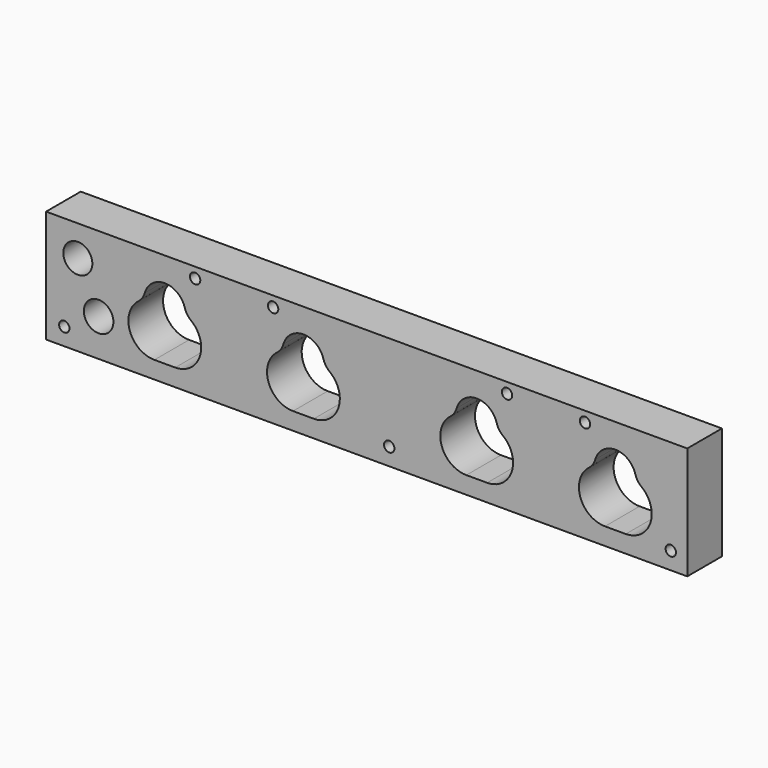
from build123d import *

# Parameters (mm, degrees)
F0_W     = 370
F0_H     = 65
F0_R     = 3
F1_DEPTH = 25
F3_DEPTH = 25
F4_R     = 8.382557
F4_R_2   = 8.524465
F5_DEPTH = 25


with BuildPart() as f1:
    # F0 (on Front) → F1 (new body)
    with BuildSketch(Plane.XZ):
        Rectangle(F0_W, F0_H)
        with Locations((-174.5, -22.5)):
            Circle(F0_R, mode=Mode.SUBTRACT)
        with BuildLine():
            ThreePointArc((-128.054669, 9.662031), (-116.5, 18.423264), (-104.945331, 9.662031))
            ThreePointArc((-104.945331, 9.662031), (-103.594078, 6.750238), (-101.389864, 4.416603))
            ThreePointArc((-101.389864, 4.416603), (-96.291745, -12.308896), (-110.5, -22.5))
            Line((-110.5, -22.5), (-122.5, -22.5))
            ThreePointArc((-122.5, -22.5), (-136.708255, -12.308896), (-131.610136, 4.416603))
            ThreePointArc((-131.610136, 4.416603), (-129.405922, 6.750238), (-128.054669, 9.662031))
        make_face(mode=Mode.SUBTRACT)
        with BuildLine():
            ThreePointArc((-48.054669, 9.662031), (-36.5, 18.423264), (-24.945331, 9.662031))
            ThreePointArc((-24.945331, 9.662031), (-23.594078, 6.750238), (-21.389864, 4.416603))
            ThreePointArc((-21.389864, 4.416603), (-16.291745, -12.308896), (-30.5, -22.5))
            Line((-30.5, -22.5), (-42.5, -22.5))
            ThreePointArc((-42.5, -22.5), (-56.708255, -12.308896), (-51.610136, 4.416603))
            ThreePointArc((-51.610136, 4.416603), (-49.405922, 6.750238), (-48.054669, 9.662031))
        make_face(mode=Mode.SUBTRACT)
        with Locations((13, -22.5)):
            Circle(F0_R, mode=Mode.SUBTRACT)
        with Locations((175.5, -22.5)):
            Circle(F0_R, mode=Mode.SUBTRACT)
        with Locations((-99, 26.5)):
            Circle(F0_R, mode=Mode.SUBTRACT)
        with Locations((-54, 26.5)):
            Circle(F0_R, mode=Mode.SUBTRACT)
        with Locations((81, 26.5)):
            Circle(F0_R, mode=Mode.SUBTRACT)
        with Locations((126, 26.5)):
            Circle(F0_R, mode=Mode.SUBTRACT)
    extrude(amount=F1_DEPTH)

    # F2 (on face) → F3 (cut)
    with BuildSketch(Plane.XZ.offset(25)):
        with BuildLine():
            ThreePointArc((128.389864, 4.416603), (123.291745, -12.308896), (137.5, -22.5))
            Line((137.5, -22.5), (149.5, -22.5))
            ThreePointArc((149.5, -22.5), (163.708255, -12.308896), (158.610136, 4.416603))
            ThreePointArc((158.610136, 4.416603), (156.405922, 6.750238), (155.054669, 9.662031))
            ThreePointArc((155.054669, 9.662031), (143.5, 18.423264), (131.945331, 9.662031))
            ThreePointArc((131.945331, 9.662031), (130.594078, 6.750238), (128.389864, 4.416603))
        make_face()
        with BuildLine():
            Line((57.5, -22.5), (69.5, -22.5))
            ThreePointArc((69.5, -22.5), (83.708255, -12.308896), (78.610136, 4.416603))
            ThreePointArc((78.610136, 4.416603), (76.405922, 6.750238), (75.054669, 9.662031))
            ThreePointArc((75.054669, 9.662031), (63.5, 18.423264), (51.945331, 9.662031))
            ThreePointArc((51.945331, 9.662031), (50.594078, 6.750238), (48.389864, 4.416603))
            ThreePointArc((48.389864, 4.416603), (43.291745, -12.308896), (57.5, -22.5))
        make_face()
    extrude(amount=-F3_DEPTH, mode=Mode.SUBTRACT)

    # F4 (on face) → F5 (cut)
    with BuildSketch(Plane.XZ.offset(25)):
        with Locations((-166.68272, 14.735676)):
            Circle(F4_R)
        with Locations((-154.677153, -10.931376)):
            Circle(F4_R_2)
    extrude(amount=-F5_DEPTH, mode=Mode.SUBTRACT)


solid = f1.part
